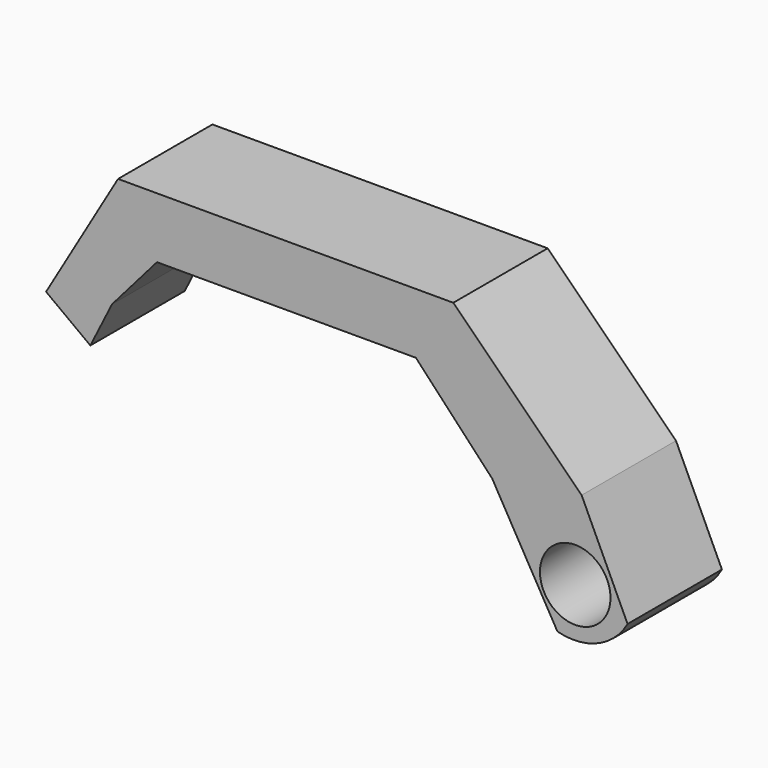
from build123d import *

# Parameters (mm, degrees)
F1_DEPTH = 12.7
F3_D     = 7.5946
F5_DEPTH = 25.4


with BuildPart() as f1:
    # F0 (on Front) → F1 (new body)
    with BuildSketch(Plane.XZ):
        Polygon((-29.167796, -5.559607), (-24.333354, 0), (3.545257, 0), (11.763807, -8.782567), (18.78079, -20.983703), (21.036864, -25.818144), (22.326047, -25.818144), (27.099216, -19.453921), (21.389281, -7.218347), (7.573958, 6.526496), (-28.523203, 6.526496), (-36.271484, -6.691031), (-31.504442, -10.2329), align=None)
    extrude(amount=F1_DEPTH)

    # F3 (through all)
    with Locations(Plane.XZ.offset(12.7)):
        with Locations((20.701887, -15.946049)):
            Hole(F3_D / 2)

    # F4 (on face) → F5 (cut)
    with BuildSketch(Plane.XZ.offset(12.7)):
        with BuildLine():
            ThreePointArc((26.33537, -17.817108), (23.104833, -20.704799), (18.78079, -20.983703))
            Line((18.78079, -20.983703), (21.036864, -25.818144))
            Line((21.036864, -25.818144), (22.326047, -25.818144))
            Line((22.326047, -25.818144), (27.099216, -19.453921))
            Line((27.099216, -19.453921), (26.33537, -17.817108))
        make_face()
    extrude(amount=-F5_DEPTH, mode=Mode.SUBTRACT)


solid = f1.part
